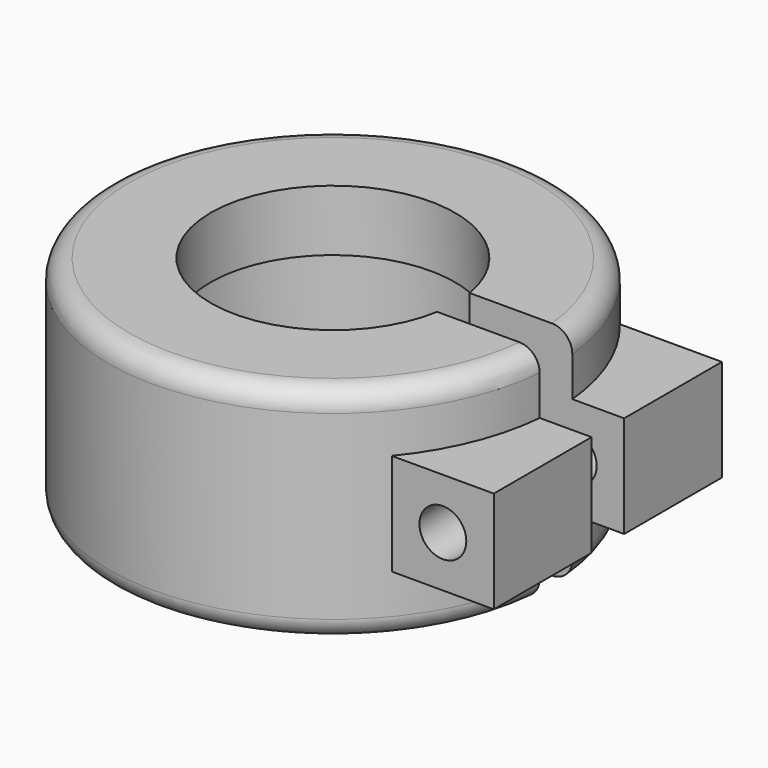
from build123d import *

# Parameters (mm, degrees)
SKETCH001_W     = 5
SKETCH001_H     = 5
PAD_DEPTH       = 7
SKETCH002_W     = 12
SKETCH002_H     = 2
POCKET_DEPTH    = 9
SKETCH003_R     = 1.15
POCKET001_DEPTH = 18.001


with BuildPart() as part:
    # Sketch → Revolution (revolve)
    with BuildSketch(Plane.XZ):
        with BuildLine():
            Line((7.3, 1), (7.5, 1))
            Line((7.5, 1), (7.5, 3.1))
            Line((7.5, 3.1), (6.8, 3.1))
            Line((6.8, 3.1), (6.8, 3.3))
            Line((6.8, 3.3), (7, 3.3))
            Line((7, 3.3), (7, 7.9))
            Line((7, 7.9), (6, 7.9))
            Line((6, 7.9), (6, 10.9))
            Line((6, 10.9), (10, 10.9))
            ThreePointArc((11, 9.9), (10.707107, 10.607107), (10, 10.9))
            Line((11, 9.9), (11, 1))
            ThreePointArc((10, 0), (10.707107, 0.292893), (11, 1))
            Line((10, 0), (8.3, 0))
            ThreePointArc((7.3, 1), (7.592893, 0.292893), (8.3, 0))
        make_face()
    revolve(axis=Axis((0, 0, 0), (0, 0, 1)))

    # Sketch001 → Pad (new body, symmetric)
    with BuildSketch(Plane.XZ):
        with Locations((11, 5.45)):
            Rectangle(SKETCH001_W, SKETCH001_H)
    extrude(amount=PAD_DEPTH, both=True)

    # Sketch002 (on Face13 of Pad) → Pocket (cut)
    with BuildSketch(Plane(origin=(13.5, 0, 0), x_dir=(0, 0, 1), z_dir=(1, 0, 0))):
        with Locations((6, 0)):
            Rectangle(SKETCH002_W, SKETCH002_H)
    extrude(amount=-POCKET_DEPTH, mode=Mode.SUBTRACT)

    # Sketch003 (on Face25 of Pocket) → Pocket001 (cut, through all)
    with BuildSketch(Plane.XZ.offset(7)):
        with Locations((11, 5.45)):
            Circle(SKETCH003_R)
    extrude(amount=-POCKET001_DEPTH, mode=Mode.SUBTRACT)


solid = part.part
